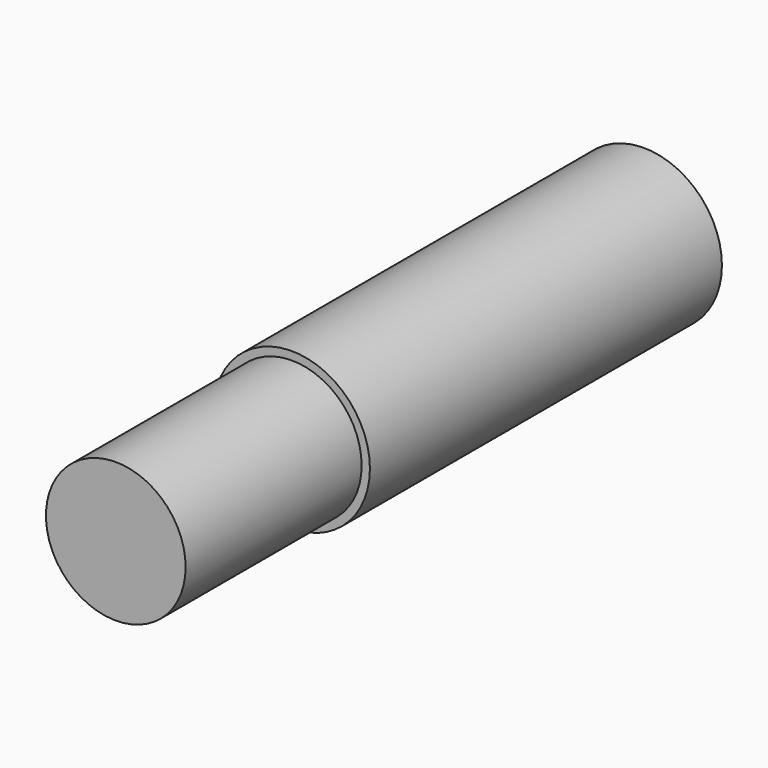
from build123d import *

# Parameters (mm, degrees)
F0_R     = 17.749636
F0_R_2   = 1.710975
F1_DEPTH = 100
F2_R     = 15.871691
F3_DEPTH = 50


with BuildPart() as f1:
    # F0 (on Front) → F1 (new body)
    with BuildSketch(Plane.XZ):
        Circle(F0_R)
        Circle(F0_R_2, mode=Mode.SUBTRACT)
    extrude(amount=-F1_DEPTH)

    # F2 (on Front) → F3 (join)
    with BuildSketch(Plane.XZ):
        Circle(F2_R)
    extrude(amount=F3_DEPTH)


solid = f1.part
